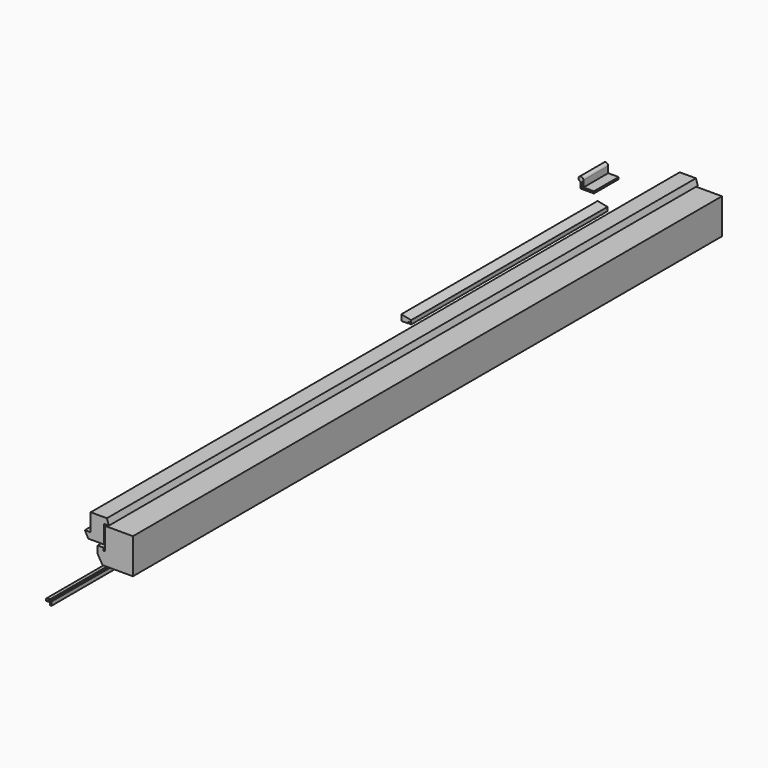
from build123d import *

# Parameters (mm, degrees)
F3_DEPTH = 1500
F4_DEPTH = 63
F6_DEPTH = 1500
F8_DEPTH = 500


with BuildPart() as f3:
    # F0 (on Front) + F1 (on Front) → F3 (new body)
    with BuildSketch(Plane.XZ):
        Polygon((0, 72), (-57, 72), (-57, 32), (-57, 26.5), (-60, 26.5), (-60, 32), (-72, 32), (-72, 17), (-62, 0), (0, 0), align=None)
    with BuildSketch(Plane.XZ):
        Polygon((-59, 75), (-49, 75), (-53, 87), (-86, 87), (-86, 51), (-98, 51), (-91, 38), (-59, 38), align=None)
    extrude(amount=F3_DEPTH)


with BuildPart() as f4:
    # F2 (on Front) → F4 (new body)
    with BuildSketch(Plane.XZ):
        with BuildLine():
            Line((-235.898336, 36.02443), (-235.898336, 46.133099))
            ThreePointArc((-235.898336, 46.133099), (-234.415241, 46.602908), (-233.148336, 47.505815))
            Line((-233.148336, 47.505815), (-233.148336, 36.576529))
            Line((-233.148336, 36.576529), (-210.398336, 36.576529))
            Line((-210.398336, 36.576529), (-210.398336, 38.076529))
            Line((-210.398336, 38.076529), (-231.648336, 38.076529))
            Line((-231.648336, 38.076529), (-231.648336, 51.076529))
            ThreePointArc((-231.648336, 51.076529), (-239.907937, 54.867967), (-237.398336, 46.133099))
            Line((-237.398336, 46.133099), (-237.398336, 34.076529))
            Line((-237.398336, 34.076529), (-210.398336, 34.076529))
            Line((-210.398336, 34.076529), (-210.398336, 36.02443))
            Line((-210.398336, 36.02443), (-235.898336, 36.02443))
        make_face()
    extrude(amount=F4_DEPTH)


with BuildPart() as f6:
    # F5 (on Front) → F6 (new body)
    with BuildSketch(Plane.XZ):
        with BuildLine():
            Line((-169.239743, -101.642079), (-169.239743, -107.142079))
            Line((-169.239743, -107.142079), (-166.239743, -107.142079))
            Line((-166.239743, -107.142079), (-166.239743, -99.642079))
            ThreePointArc((-166.239743, -99.642079), (-166.38619, -99.288526), (-166.739743, -99.142079))
            Line((-166.739743, -99.142079), (-173.945686, -99.142079))
            Line((-173.945686, -99.142079), (-168.147011, -98.190057))
            ThreePointArc((-168.147011, -98.190057), (-167.821854, -97.988266), (-167.734621, -97.615657))
            Line((-167.734621, -97.615657), (-167.977637, -96.135474))
            ThreePointArc((-167.977637, -96.135474), (-168.179428, -95.810317), (-168.552036, -95.723084))
            Line((-168.552036, -95.723084), (-176.520749, -97.031382))
            ThreePointArc((-176.520749, -97.031382), (-176.820862, -97.201127), (-176.939743, -97.524776))
            Line((-176.939743, -97.524776), (-176.939743, -101.142079))
            ThreePointArc((-176.939743, -101.142079), (-176.793297, -101.495633), (-176.439743, -101.642079))
            Line((-176.439743, -101.642079), (-169.239743, -101.642079))
        make_face()
    extrude(amount=F6_DEPTH)


with BuildPart() as f8:
    # F7 (on Front) → F8 (new body)
    with BuildSketch(Plane.XZ):
        Polygon((-233.140015, -22.816613), (-253.140015, -18.716228), (-253.140015, -30.716228), (-239.140015, -30.716228), (-239.140015, -27.716228), (-236.140015, -27.716228), (-236.140015, -30.716228), (-233.140015, -30.716228), align=None)
    extrude(amount=F8_DEPTH)


solid = Compound([f3.part, f4.part, f6.part, f8.part])
